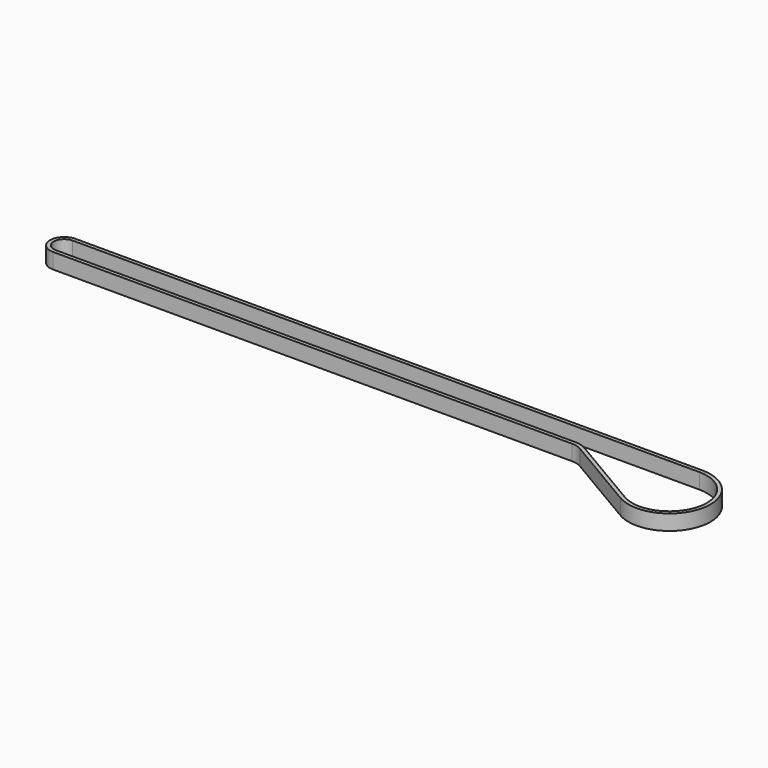
from build123d import *

# Parameters (mm, degrees)
F1_DEPTH = 9.525


with BuildPart() as f1:
    # F0 (on Top) → F1 (new body)
    with BuildSketch(Plane.XY):
        with BuildLine():
            Line((0, 2.3), (-387.115837, 2.3))
            ThreePointArc((-387.115837, 2.3), (-395.868834, -6.452997), (-387.115837, -15.205994))
            Line((-387.115837, -15.205994), (-66.557919, -15.205994))
            ThreePointArc((-66.557919, -15.205994), (-63.2144, -15.654019), (-60.106784, -16.966485))
            Line((-60.106784, -16.966485), (-12.860997, -44.827782))
            ThreePointArc((-12.860997, -44.827782), (24.425566, -29.684396), (0, 2.3))
        make_face()
        with BuildLine():
            ThreePointArc((0, 0), (22.206704, -29.078877), (-11.692681, -42.846611))
            Line((-11.692681, -42.846611), (-58.938469, -14.985314))
            ThreePointArc((-58.938469, -14.985314), (-62.608881, -13.435158), (-66.557919, -12.905994))
            Line((-66.557919, -12.905994), (-387.115837, -12.905994))
            ThreePointArc((-387.115837, -12.905994), (-393.568834, -6.452997), (-387.115837, 0))
            Line((-387.115837, 0), (0, 0))
        make_face(mode=Mode.SUBTRACT)
    extrude(amount=F1_DEPTH)


solid = f1.part
